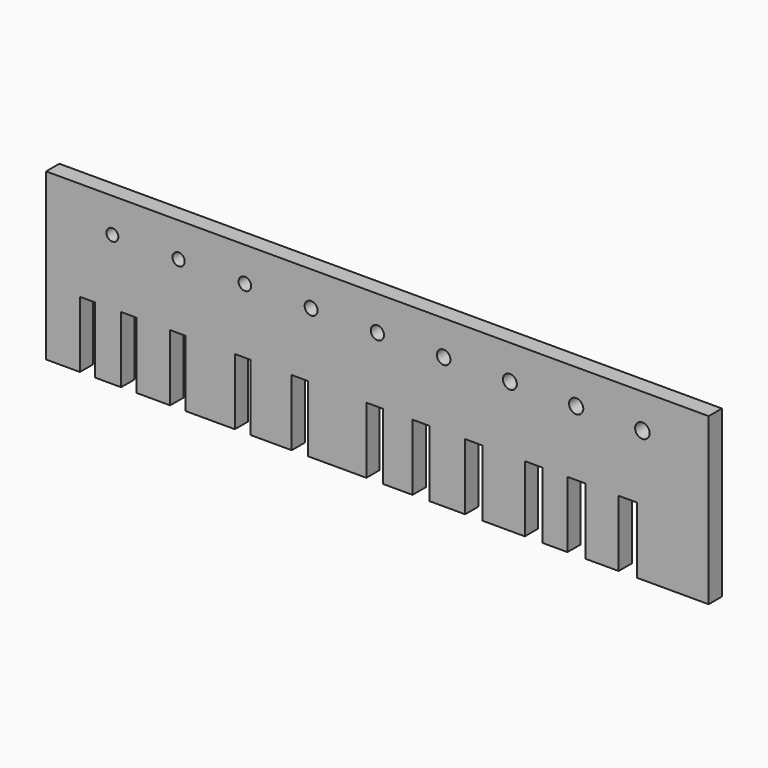
from build123d import *

# Parameters (mm, degrees)
F1_DEPTH = 5
F3_D     = 4
F4_D     = 4.1
F5_D     = 4.2
F6_D     = 4.3
F7_D     = 4.4
F8_D     = 3.9
F9_D     = 3.8
F10_D    = 3.7
F11_D    = 3.6


with BuildPart() as f1:
    # F0 (on Front) → F1 (new body)
    with BuildSketch(Plane.XZ):
        Polygon((100, -25), (100, 25), (-100, 25), (-100, -25), (-89.7911712527, -25), (-89.7911712527, -5), (-85.2911712527, -5), (-85.2911712527, -25), (-77.3481056094, -25), (-77.3481056094, -5), (-72.7481056094, -5), (-72.7481056094, -25), (-62.5451430678, -25), (-62.5451430678, -5), (-57.8451430678, -5), (-57.8451430678, -25), (-43.0224016309, -25), (-43.0224016309, -5), (-38.2224016309, -5), (-38.2224016309, -25), (-25.8595496416, -25), (-25.8595496416, -5), (-20.9595496416, -5), (-20.9595496416, -25), (-3.3333026804, -25), (-3.3333026804, -5), (1.6666973196, -5), (1.6666973196, -25), (10.6115136296, -25), (10.6115136296, -5), (15.7115136296, -5), (15.7115136296, -25), (26.4871511608, -25), (26.4871511608, -5), (31.6871511608, -5), (31.6871511608, -25), (44.50815171, -25), (44.50815171, -5), (49.80815171, -5), (49.80815171, -25), (57.3802888393, -25), (57.3802888393, -5), (62.7802888393, -5), (62.7802888393, -25), (72.8268548846, -25), (72.8268548846, -5), (78.3268548846, -5), (78.3268548846, -25), align=None)
    extrude(amount=F1_DEPTH)

    # F3 (through all)
    with Locations(Plane(origin=(0, 0, 0), x_dir=(1, 0, 0), z_dir=(0, 1, 0))):
        with Locations((0, -14.6358385682)):
            Hole(F3_D / 2)

    # F4 (through all)
    with Locations(Plane(origin=(0, 0, 0), x_dir=(1, 0, 0), z_dir=(0, 1, 0))):
        with Locations((20, -14.6358385682)):
            Hole(F4_D / 2)

    # F5 (through all)
    with Locations(Plane(origin=(0, 0, 0), x_dir=(1, 0, 0), z_dir=(0, 1, 0))):
        with Locations((40, -14.6358385682)):
            Hole(F5_D / 2)

    # F6 (through all)
    with Locations(Plane(origin=(0, 0, 0), x_dir=(1, 0, 0), z_dir=(0, 1, 0))):
        with Locations((60, -14.6358385682)):
            Hole(F6_D / 2)

    # F7 (through all)
    with Locations(Plane(origin=(0, 0, 0), x_dir=(1, 0, 0), z_dir=(0, 1, 0))):
        with Locations((80, -14.6358385682)):
            Hole(F7_D / 2)

    # F8 (through all)
    with Locations(Plane(origin=(0, 0, 0), x_dir=(1, 0, 0), z_dir=(0, 1, 0))):
        with Locations((-20, -14.6358385682)):
            Hole(F8_D / 2)

    # F9 (through all)
    with Locations(Plane(origin=(0, 0, 0), x_dir=(1, 0, 0), z_dir=(0, 1, 0))):
        with Locations((-40, -14.6358385682)):
            Hole(F9_D / 2)

    # F10 (through all)
    with Locations(Plane(origin=(0, 0, 0), x_dir=(1, 0, 0), z_dir=(0, 1, 0))):
        with Locations((-60, -14.6358385682)):
            Hole(F10_D / 2)

    # F11 (through all)
    with Locations(Plane(origin=(0, 0, 0), x_dir=(1, 0, 0), z_dir=(0, 1, 0))):
        with Locations((-80, -14.6358385682)):
            Hole(F11_D / 2)


solid = f1.part
